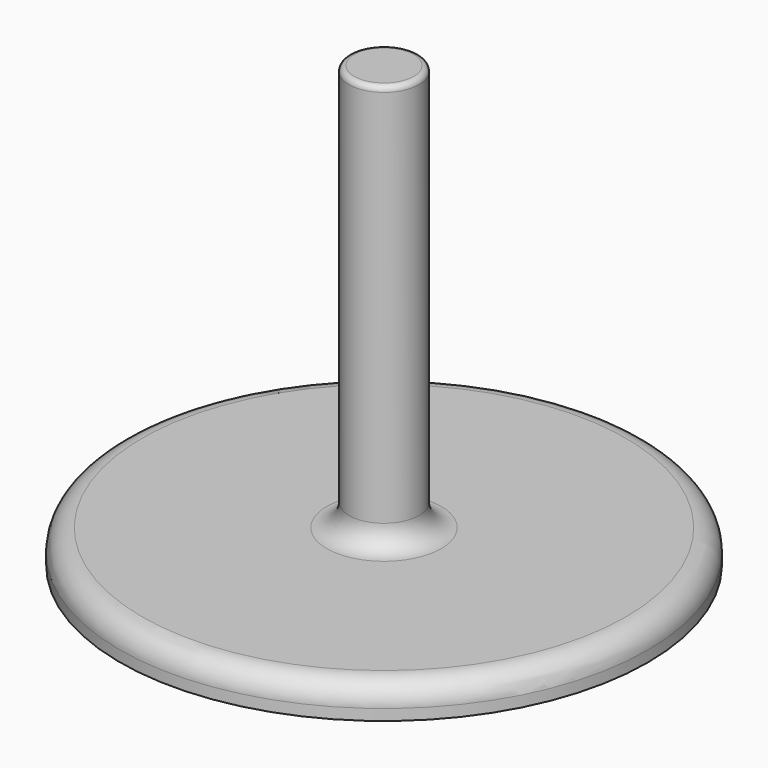
from build123d import *

# Parameters (mm, degrees)
F0_R     = 12
F0_R_2   = 1.6
F1_DEPTH = 1.5
F2_DEPTH = 20
F3_R     = 1
F4_R     = 0.25


with BuildPart() as f1:
    # F0 (on Top) → F1 (new body)
    with BuildSketch(Plane.XY):
        Circle(F0_R)
        Circle(F0_R_2, mode=Mode.SUBTRACT)
    extrude(amount=F1_DEPTH)

    # F0 (on Top) → F2 (join)
    with BuildSketch(Plane.XY):
        Circle(F0_R_2)
    extrude(amount=F2_DEPTH)

    # F3
    f3_edges = [f1.edges().sort_by_distance(p)[0] for p in [
        (-12, 0, 1.5),
        (-1.6, 0, 1.5),
    ]]
    fillet(f3_edges, radius=F3_R)

    # F4
    f4_edges = [f1.edges().sort_by_distance(p)[0] for p in [
        (-1.6, 0, 20),
    ]]
    fillet(f4_edges, radius=F4_R)


solid = f1.part
